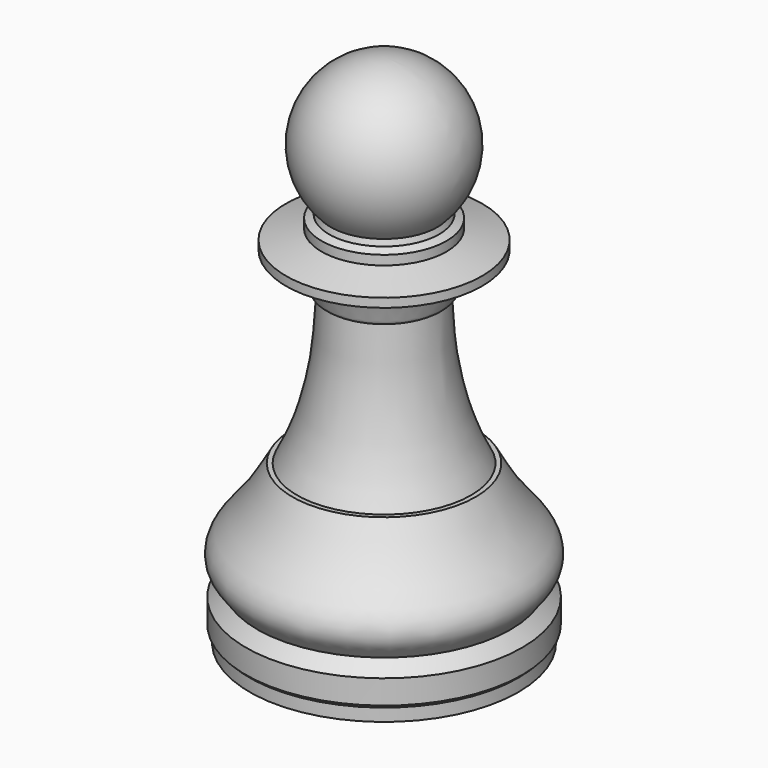
from build123d import *


with BuildPart() as f1:
    # F0 (on Front) → F1 (revolve)
    with BuildSketch(Plane.XZ):
        with BuildLine():
            Line((6.2032453716, 16.3905378431), (6.009136892, 17.037686923))
            ThreePointArc((6.009136892, 17.037686923), (8.0347788434, 26.5177143152), (0, 31.9414098828))
            Line((0, 31.9414098828), (0, -26.0926280171))
            Line((0, -26.0926280171), (15.1344565675, -26.0926280171))
            Line((15.1344565675, -26.0926280171), (15.1344565675, -24.6741455048))
            Line((15.1344565675, -24.6741455048), (15.5547475442, -24.2538545281))
            Line((15.5547475442, -24.2538545281), (15.5547475442, -21.5482320637))
            Line((15.5547475442, -21.5482320637), (14.2590813339, -20.1696492732))
            add(Edge.make_bspline(
                [(10.3199500591, -8.3096865565), (11.0940265644, -9.5898087318), (12.4574402002, -12.4321165393), (16.0170207701, -15.901405966), (15.6949527958, -18.5891253545), (14.773655929, -19.3290623713), (14.2590813339, -20.1696492732)],
                knots=[0, 0, 0, 0, 0.2981234472, 0.5972026459, 0.797822509, 1, 1, 1, 1], degree=3))
            Line((10.3199500591, -8.3096865565), (9.8013142124, -8.3096865565))
            add(Edge.make_bspline(
                [(5.9614782222, 8.6239716038), (6.1240255962, 5.7302897884), (6.4862543222, -0.0268683968), (8.4594698111, -5.7643388802), (9.8013142124, -8.3096865565)],
                knots=[0, 0, 0, 0, 0.4980907257, 1, 1, 1, 1], degree=3))
            add(Edge.make_bspline(
                [(11.0456952825, 12.8282755613), (9.576673119, 12.5324798455), (6.9334532156, 12.000252938), (6.7850734272, 8.8217995661), (6.1693263383, 8.6738968208), (5.9614782222, 8.6239716038)],
                knots=[0, 0, 0, 0, 0.4531862811, 0.8154206437, 1, 1, 1, 1], degree=3))
            Line((11.0456952825, 12.8282755613), (11.0456952825, 13.8301616535))
            Line((11.0456952825, 13.8301616535), (7.0381504484, 14.9433687329))
            Line((7.0381504484, 14.9433687329), (7.0381504484, 16.0009153187))
            Line((7.0381504484, 16.0009153187), (6.2032453716, 16.3905378431))
        make_face()
    revolve(axis=Axis((0, 0, 6.0542020947), (0, 0, -1)))


solid = f1.part
